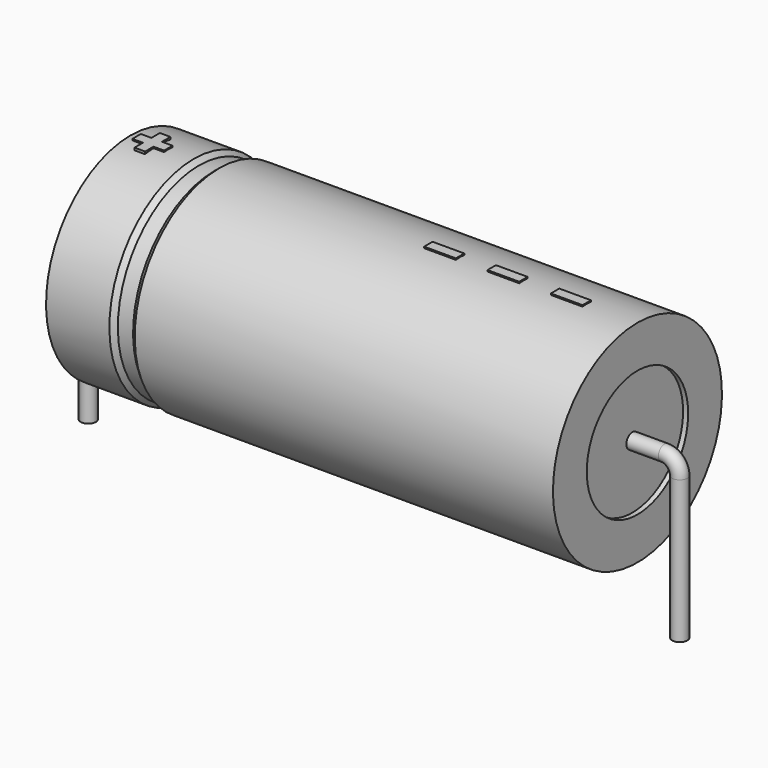
from build123d import *

# Parameters (mm, degrees)
SKETCH_R    = 0.45
SKETCH004_W = 1.875
SKETCH004_H = 0.625
PAD_DEPTH   = 6.3125


with BuildPart() as sweep_body:
    # Sweep: sweep along a path in Sketch001
    with BuildLine(Plane.XZ) as sweep_path:
        Line((0, -3), (0, 5.45))
        ThreePointArc((0, 5.45), (0.263601, 6.086393), (0.899991, 6.35))
        Line((0.899991, 6.35), (34.1, 6.35))
        ThreePointArc((34.1, 6.35), (34.736396, 6.086396), (35, 5.45))
        Line((35, 5.45), (35, -3))
    # Sketch → Sweep (sweep)
    with BuildSketch(Plane.XY.offset(-2)):
        Circle(SKETCH_R)
    sweep(path=sweep_path.line)


with BuildPart() as revolution:
    # Sketch002 → Revolution (revolve)
    with BuildSketch(Plane.XZ):
        Polygon((2.5, 12.6), (2.5, 10.1), (32.5, 10.1), (32.5, 12.6), (7.75, 12.6), (7.45, 12.35), (6.55, 12.35), (6.25, 12.6), align=None)
    revolve(axis=Axis((6.97588, 0, 6.35), (1, 0, 0)))


with BuildPart() as revolution001:
    # Sketch003 → Revolution001 (revolve)
    with BuildSketch(Plane.XZ):
        Polygon((2.8, 12.35), (4.3, 12.35), (4.3, 6.975), (30.7, 6.975), (30.7, 12.35), (32.2, 12.35), (32.2, 6.35), (2.8, 6.35), align=None)
    revolve(axis=Axis((6.97588, 0, 6.35), (1, 0, 0)))


with BuildPart() as pad:
    # Sketch004 → Pad (new body)
    with BuildSketch(Plane.XY.offset(6.35)):
        with Locations((28.5625, 0)):
            Rectangle(SKETCH004_W, SKETCH004_H)
        with Locations((24.8125, 0)):
            Rectangle(SKETCH004_W, SKETCH004_H)
        with Locations((21.0625, 0)):
            Rectangle(SKETCH004_W, SKETCH004_H)
        Polygon((3.485, 0.3125), (2.86, 0.3125), (2.86, -0.3125), (3.485, -0.3125), (3.485, -0.9375), (4.11, -0.9375), (4.11, -0.3125), (4.735, -0.3125), (4.735, 0.3125), (4.11, 0.3125), (4.11, 0.9375), (3.485, 0.9375), align=None)
    extrude(amount=PAD_DEPTH)


solid = Compound([sweep_body.part, revolution.part, revolution001.part, pad.part])
